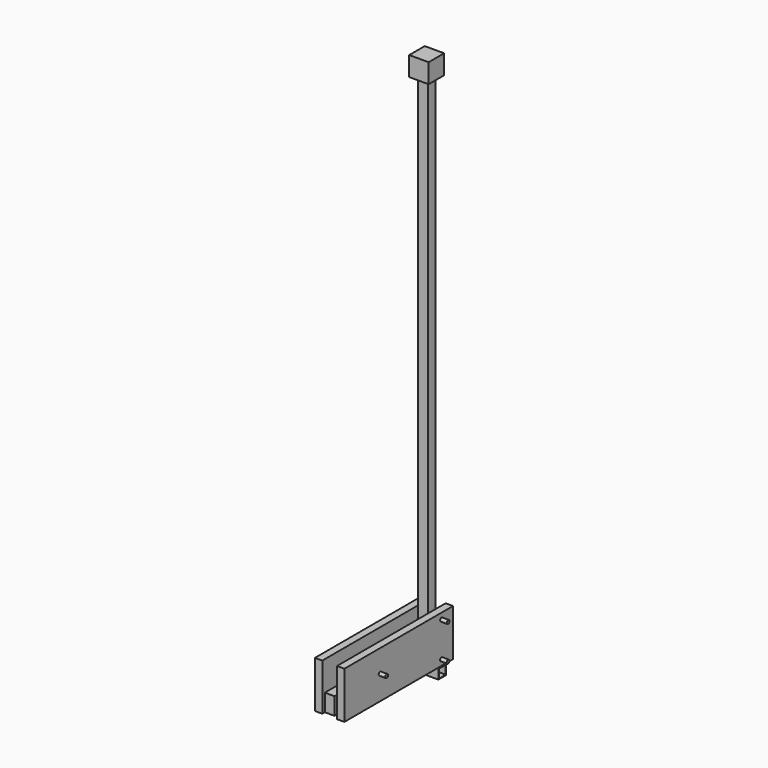
from build123d import *

# Parameters (mm, degrees)
SKETCH013_R   = 9
PAD016_DEPTH  = 200
BOX_W         = 100
BOX_H         = 100
BOX_DEPTH     = 100
SKETCH010_W   = 38.1
SKETCH010_H   = 241.3
PAD013_DEPTH  = 700
SKETCH011_R   = 9
PAD014_DEPTH  = 200
SKETCH014_W   = 50.8
SKETCH014_H   = 50.8
SKETCH014_W_2 = 44.45
SKETCH014_H_2 = 44.45
PAD017_DEPTH  = 160
SKETCH015_W   = 38.1
SKETCH015_H   = 241.3
PAD018_DEPTH  = 700
SKETCH016_W   = 50.8
SKETCH016_H   = 88.9
PAD019_DEPTH  = 300
PAD005_DEPTH  = 3.175
PAD004_DEPTH  = 3.175
PAD002_DEPTH  = 3.175
SKETCH004_R   = 11.675
SKETCH004_R_2 = 8.5
PAD007_DEPTH  = 50.8
SKETCH005_R   = 9
PAD008_DEPTH  = 50.8
SKETCH001_W   = 50.8
SKETCH001_H   = 50.8
SKETCH001_W_2 = 44.45
SKETCH001_H_2 = 44.45
PAD001_DEPTH  = 400
SKETCH006_R   = 11.675
SKETCH006_R_2 = 8.5
PAD009_DEPTH  = 50.8
SKETCH007_R   = 11.675
SKETCH007_R_2 = 8.5
PAD010_DEPTH  = 50.8
SKETCH009_R   = 9
PAD012_DEPTH  = 50.8
SKETCH008_R   = 9
PAD011_DEPTH  = 50.8
SKETCH_W      = 50.8
SKETCH_H      = 50.8
SKETCH_W_2    = 44.45
SKETCH_H_2    = 44.45
PAD_DEPTH     = 2650
PAD006_DEPTH  = 3.175
SKETCH012_R   = 9
PAD015_DEPTH  = 200


with BuildPart() as lower_bolt:
    # Sketch013 → Pad016 (new body)
    with BuildSketch(Plane(origin=(-65, 25.4, 30), x_dir=(0, 0, -1), z_dir=(1, 0, 0))):
        Circle(SKETCH013_R)
    extrude(amount=PAD016_DEPTH)


with BuildPart() as cube:
    # Box → Box (new body)
    with BuildSketch(Plane(origin=(-25, -25, 2650), x_dir=(1, 0, 0), z_dir=(0, 0, 1))):
        with Locations((50, 50)):
            Rectangle(BOX_W, BOX_H)
    extrude(amount=BOX_DEPTH)


with BuildPart() as joist:
    # Sketch010 → Pad013 (new body)
    with BuildSketch(Plane(origin=(-50.8, 100, 0), x_dir=(1, 0, 0), z_dir=(0, -1, 0))):
        with Locations((19.05, 120.65)):
            Rectangle(SKETCH010_W, SKETCH010_H)
    extrude(amount=PAD013_DEPTH)


with BuildPart() as brace_bolt:
    # Sketch011 → Pad014 (new body)
    with BuildSketch(Plane(origin=(-65, -370, 125.4), x_dir=(0, 0, -1), z_dir=(1, 0, 0))):
        Circle(SKETCH011_R)
    extrude(amount=PAD014_DEPTH)


with BuildPart() as lower_support_tube:
    # Sketch014 → Pad017 (new body)
    with BuildSketch(Plane(origin=(105, 0, 0), x_dir=(0, 0, -1), z_dir=(1, 0, 0))):
        with Locations((25.4, 25.4)):
            Rectangle(SKETCH014_W, SKETCH014_H)
        with Locations((25.4, 25.4)):
            Rectangle(SKETCH014_W_2, SKETCH014_H_2, mode=Mode.SUBTRACT)
    extrude(amount=-PAD017_DEPTH)


with BuildPart() as pad018:
    # Sketch015 → Pad018 (new body)
    with BuildSketch(Plane(origin=(62.8, 100, 0), x_dir=(1, 0, 0), z_dir=(0, -1, 0))):
        with Locations((19.05, 120.65)):
            Rectangle(SKETCH015_W, SKETCH015_H)
    extrude(amount=PAD018_DEPTH)


with BuildPart() as brace_support:
    # Sketch016 → Pad019 (new body)
    with BuildSketch(Plane(origin=(0, -300, 11.1), x_dir=(1, 0, 0), z_dir=(0, -1, 0))):
        with Locations((25.4, 44.45)):
            Rectangle(SKETCH016_W, SKETCH016_H)
    extrude(amount=PAD019_DEPTH)


with BuildPart() as gusset3:
    # Sketch003 → Pad005 (new body)
    with BuildSketch(Plane(origin=(47.625, 0, 150.8), x_dir=(0, 1, 0), z_dir=(1, 0, 0))):
        with BuildLine():
            Line((0, 0), (0, 50))
            ThreePointArc((-50, 0), (-15.471731, 15.471731), (0, 50))
            Line((0, 0), (-50, 0))
        make_face()
    extrude(amount=PAD005_DEPTH)


with BuildPart() as gusset2:
    # MirroredSketch → Pad004 (new body)
    with BuildSketch(Plane(origin=(0, 0, 100), x_dir=(0, 1, 0), z_dir=(1, 0, 0))):
        with BuildLine():
            Line((0, 0), (0, -50))
            ThreePointArc((0, -50), (-15.471731, -15.471731), (-50, 0))
            Line((0, 0), (-50, 0))
        make_face()
    extrude(amount=PAD004_DEPTH)


with BuildPart() as gusset1:
    # Sketch002 → Pad002 (new body)
    with BuildSketch(Plane(origin=(0, 0, 150.8), x_dir=(0, 1, 0), z_dir=(1, 0, 0))):
        with BuildLine():
            Line((0, 0), (0, 50))
            ThreePointArc((-50, 0), (-15.471731, 15.471731), (0, 50))
            Line((0, 0), (-50, 0))
        make_face()
    extrude(amount=PAD002_DEPTH)


with BuildPart() as brace_bolt_tube:
    # Sketch004 → Pad007 (new body)
    with BuildSketch(Plane(origin=(0, -370, 125.4), x_dir=(0, 0, -1), z_dir=(1, 0, 0))):
        Circle(SKETCH004_R)
        Circle(SKETCH004_R_2, mode=Mode.SUBTRACT)
    extrude(amount=PAD007_DEPTH)


with BuildPart() as brace_bolt_hole:
    # Sketch005 → Pad008 (new body)
    with BuildSketch(Plane(origin=(0, -370, 125.4), x_dir=(0, 0, -1), z_dir=(1, 0, 0))):
        Circle(SKETCH005_R)
    extrude(amount=PAD008_DEPTH)


with BuildPart() as brace_fusion:
    # Sketch001 → Pad001 (new body)
    with BuildSketch(Plane(origin=(0, 0, 100), x_dir=(1, 0, 0), z_dir=(0, -1, 0))):
        with Locations((25.4, 25.4)):
            Rectangle(SKETCH001_W, SKETCH001_H)
        with Locations((25.4, 25.4)):
            Rectangle(SKETCH001_W_2, SKETCH001_H_2, mode=Mode.SUBTRACT)
    extrude(amount=PAD001_DEPTH)

    # Cut: cut Brace Bolt Hole
    add(brace_bolt_hole.part, mode=Mode.SUBTRACT)

    # Fusion: union Brace Bolt Tube
    add(brace_bolt_tube.part)


with BuildPart() as lower_bolt_tube:
    # Sketch006 → Pad009 (new body)
    with BuildSketch(Plane(origin=(0, 25.4, 30), x_dir=(0, 0, -1), z_dir=(1, 0, 0))):
        Circle(SKETCH006_R)
        Circle(SKETCH006_R_2, mode=Mode.SUBTRACT)
    extrude(amount=PAD009_DEPTH)


with BuildPart() as upper_bolt_tube:
    # Sketch007 → Pad010 (new body)
    with BuildSketch(Plane(origin=(0, 25.4, 210), x_dir=(0, 0, -1), z_dir=(1, 0, 0))):
        Circle(SKETCH007_R)
        Circle(SKETCH007_R_2, mode=Mode.SUBTRACT)
    extrude(amount=PAD010_DEPTH)


with BuildPart() as upper_bolt_hole:
    # Sketch009 → Pad012 (new body)
    with BuildSketch(Plane(origin=(0, 25.4, 210), x_dir=(0, 0, -1), z_dir=(1, 0, 0))):
        Circle(SKETCH009_R)
    extrude(amount=PAD012_DEPTH)


with BuildPart() as lower_bolt_hole:
    # Sketch008 → Pad011 (new body)
    with BuildSketch(Plane(origin=(0, 25.4, 30), x_dir=(0, 0, -1), z_dir=(1, 0, 0))):
        Circle(SKETCH008_R)
    extrude(amount=PAD011_DEPTH)


with BuildPart() as post_fusion:
    # Sketch → Pad (new body)
    with BuildSketch(Plane.XY):
        with Locations((25.4, 25.4)):
            Rectangle(SKETCH_W, SKETCH_H)
        with Locations((25.4, 25.4)):
            Rectangle(SKETCH_W_2, SKETCH_H_2, mode=Mode.SUBTRACT)
    extrude(amount=PAD_DEPTH)

    # Cut001: cut Lower Bolt Hole
    add(lower_bolt_hole.part, mode=Mode.SUBTRACT)

    # Cut002: cut Upper Bolt Hole
    add(upper_bolt_hole.part, mode=Mode.SUBTRACT)

    # Fusion001: union Lower Bolt Tube, Upper Bolt Tube
    add(lower_bolt_tube.part)
    add(upper_bolt_tube.part)


with BuildPart() as fusion004:
    # MirroredSketch001 → Pad006 (new body)
    with BuildSketch(Plane(origin=(47.625, 0, 100), x_dir=(0, 1, 0), z_dir=(1, 0, 0))):
        with BuildLine():
            Line((0, 0), (0, -50))
            ThreePointArc((0, -50), (-15.471731, -15.471731), (-50, 0))
            Line((0, 0), (-50, 0))
        make_face()
    extrude(amount=PAD006_DEPTH)

    # Fusion002: union Gusset3, Gusset2, Gusset1, Brace Fusion, Post Fusion
    add(gusset3.part)
    add(gusset2.part)
    add(gusset1.part)
    add(brace_fusion.part)
    add(post_fusion.part)

    # Fusion003: union Joist, Brace Bolt, Lower support Tube, Pad018, Brace Support
    add(joist.part)
    add(brace_bolt.part)
    add(lower_support_tube.part)
    add(pad018.part)
    add(brace_support.part)

    # Fusion004: union Cube
    add(cube.part)


with BuildPart() as fusion005:
    # Sketch012 → Pad015 (new body)
    with BuildSketch(Plane(origin=(-65, 25.4, 210), x_dir=(0, 0, -1), z_dir=(1, 0, 0))):
        Circle(SKETCH012_R)
    extrude(amount=PAD015_DEPTH)

    # Fusion005: union Lower Bolt, Fusion004
    add(lower_bolt.part)
    add(fusion004.part)


solid = fusion005.part
